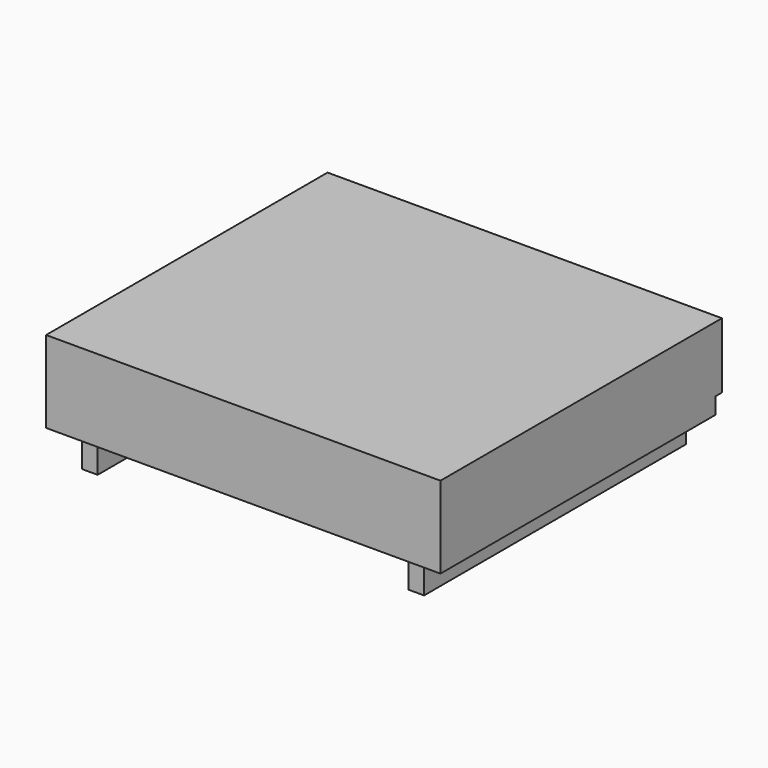
from build123d import *

# Parameters (mm, degrees)
PAD_DEPTH       = 20
SKETCH001_W     = 18
SKETCH001_H     = 25
POCKET_DEPTH    = 5
PAD001_DEPTH    = 20.5
SKETCH003_W     = 48.2
SKETCH003_H     = 10
PAD002_DEPTH    = 1
SKETCH004_W     = 6
SKETCH004_H     = 25
POCKET001_DEPTH = 5
SKETCH005_W     = 48.2
SKETCH005_H     = 8
PAD003_DEPTH    = 1


with BuildPart() as pocket:
    # Sketch → Pad (new body, symmetric)
    with BuildSketch(Plane.XZ):
        Polygon((-22.4, 0), (-20.9, 0), (-20.9, -4), (-19, -4), (-19, 0), (19, 0), (19, -4), (20.9, -4), (20.9, 0), (22.4, 0), (22.4, 0.7), (23.1, 0.7), (23.1, 1.5), (-23.1, 1.5), (-23.1, 0.7), (-22.4, 0.7), align=None)
    extrude(amount=PAD_DEPTH, both=True)

    # Sketch001 → Pocket (cut)
    with BuildSketch(Plane(origin=(0, 0, 1.5), x_dir=(-1, 0, 0), z_dir=(0, 0, 1))):
        Rectangle(SKETCH001_W, SKETCH001_H)
    extrude(amount=-POCKET_DEPTH, mode=Mode.SUBTRACT)


with BuildPart() as pad003:
    # Sketch002 → Pad001 (new body, symmetric)
    with BuildSketch(Plane.XZ):
        Polygon((-24.1, 0), (-24.1, 10), (24.1, 10), (24.1, 0), (22.4, 0), (22.4, 0.7), (23.1, 0.7), (23.1, 9), (-23.1, 9), (-23.1, 0.7), (-22.4, 0.7), (-22.4, 0), align=None)
    extrude(amount=PAD001_DEPTH, both=True)

    # Sketch003 → Pad002 (new body)
    with BuildSketch(Plane.XZ.offset(20.5)):
        with Locations((0, 5)):
            Rectangle(SKETCH003_W, SKETCH003_H)
    extrude(amount=PAD002_DEPTH)

    # Sketch004 → Pocket001 (cut)
    with BuildSketch(Plane(origin=(-24.1, 0, 0), x_dir=(0, 0, -1), z_dir=(-1, 0, 0))):
        with Locations((-5, 4)):
            Rectangle(SKETCH004_W, SKETCH004_H)
    extrude(amount=-POCKET001_DEPTH, mode=Mode.SUBTRACT)

    # Sketch005 → Pad003 (new body)
    with BuildSketch(Plane(origin=(0, 20.5, 0), x_dir=(1, 0, 0), z_dir=(0, 1, 0))):
        with Locations((0, -6)):
            Rectangle(SKETCH005_W, SKETCH005_H)
    extrude(amount=PAD003_DEPTH)


solid = Compound([pocket.part, pad003.part])
